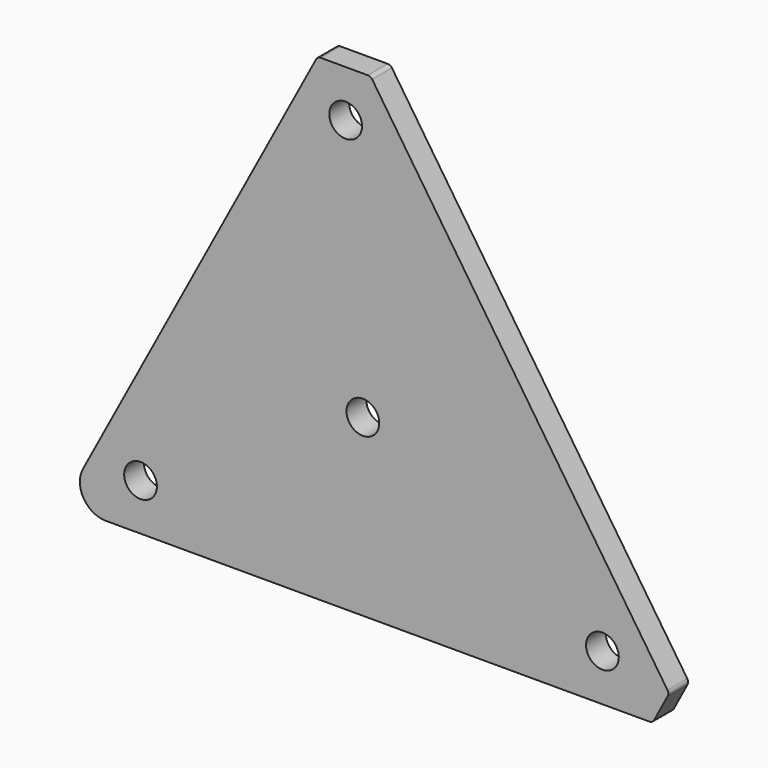
from build123d import *

# Parameters (mm, degrees)
F0_R     = 3.15
F1_DEPTH = 4.7625


with BuildPart() as f1:
    # F0 (on Front) → F1 (new body)
    with BuildSketch(Plane.XZ):
        with BuildLine():
            Line((-6.671903, -9), (97.890261, -9))
            ThreePointArc((97.890261, -9), (98.40446, -8.857671), (98.772288, -8.471199))
            Line((98.772288, -8.471199), (101.407221, -3.53893))
            ThreePointArc((101.407221, -3.53893), (101.523973, -3.018327), (101.356414, -2.511787))
            Line((101.356414, -2.511787), (44.558999, 82.408944))
            ThreePointArc((44.558999, 82.408944), (44.198978, 82.735027), (43.727779, 82.853))
            Line((43.727779, 82.853), (34.657767, 82.853))
            ThreePointArc((34.657767, 82.853), (34.143569, 82.710671), (33.775741, 82.324199))
            Line((33.775741, 82.324199), (-11.082037, -1.644003))
            ThreePointArc((-11.082037, -1.644003), (-10.960259, -6.570994), (-6.671903, -9))
        make_face()
        Circle(F0_R, mode=Mode.SUBTRACT)
        with Locations((42.768, 24.618)):
            Circle(F0_R, mode=Mode.SUBTRACT)
        with Locations((88.849, 0)):
            Circle(F0_R, mode=Mode.SUBTRACT)
        with Locations((39.454, 73.853)):
            Circle(F0_R, mode=Mode.SUBTRACT)
    extrude(amount=F1_DEPTH)


solid = f1.part
